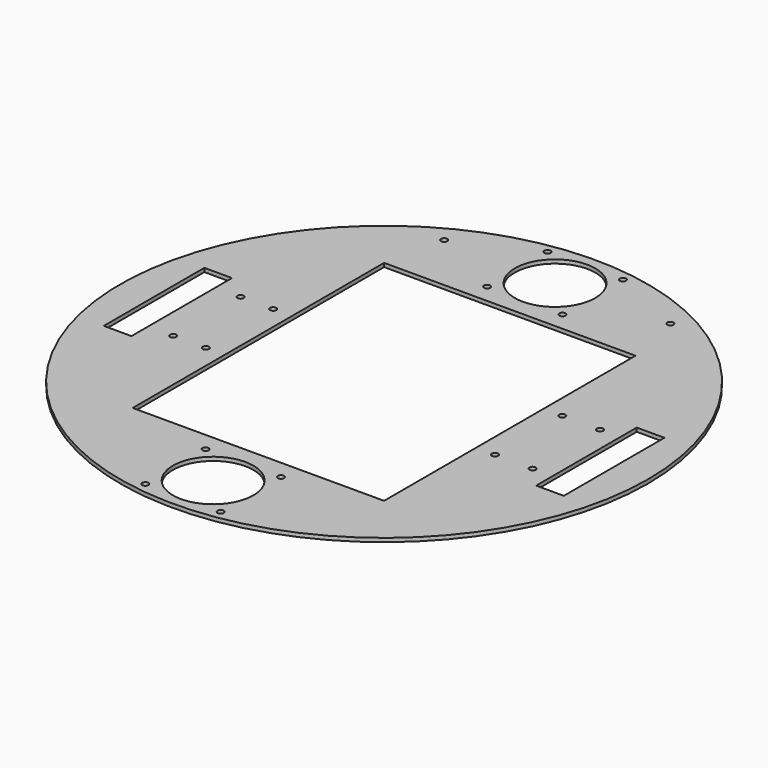
from build123d import *

# Parameters (mm, degrees)
SKETCH_R   = 210
SKETCH_R_2 = 32
SKETCH_R_3 = 2.5
SKETCH_W   = 22
SKETCH_H   = 100
SKETCH_W_2 = 200
SKETCH_H_2 = 250
PAD_DEPTH  = 1.5


with BuildPart() as part:
    # Sketch → Pad (new body, symmetric)
    with BuildSketch(Plane.XY):
        Circle(SKETCH_R)
        with Locations((0, 170)):
            Circle(SKETCH_R_2, mode=Mode.SUBTRACT)
        with Locations((0, -170)):
            Circle(SKETCH_R_2, mode=Mode.SUBTRACT)
        with Locations((-141, 33.5)):
            Circle(SKETCH_R_3, mode=Mode.SUBTRACT)
        with Locations((-141, -33.5)):
            Circle(SKETCH_R_3, mode=Mode.SUBTRACT)
        with Locations((-115, 33.5)):
            Circle(SKETCH_R_3, mode=Mode.SUBTRACT)
        with Locations((-115, -33.5)):
            Circle(SKETCH_R_3, mode=Mode.SUBTRACT)
        with Locations((115, 33.5)):
            Circle(SKETCH_R_3, mode=Mode.SUBTRACT)
        with Locations((115, -33.5)):
            Circle(SKETCH_R_3, mode=Mode.SUBTRACT)
        with Locations((145, 33.5)):
            Circle(SKETCH_R_3, mode=Mode.SUBTRACT)
        with Locations((145, -33.5)):
            Circle(SKETCH_R_3, mode=Mode.SUBTRACT)
        with Locations((-90, 172.29129)):
            Circle(SKETCH_R_3, mode=Mode.SUBTRACT)
        with Locations((90, 172.29129)):
            Circle(SKETCH_R_3, mode=Mode.SUBTRACT)
        with Locations((-30, 200)):
            Circle(SKETCH_R_3, mode=Mode.SUBTRACT)
        with Locations((30, 200)):
            Circle(SKETCH_R_3, mode=Mode.SUBTRACT)
        with Locations((-30, 140)):
            Circle(SKETCH_R_3, mode=Mode.SUBTRACT)
        with Locations((30, 140)):
            Circle(SKETCH_R_3, mode=Mode.SUBTRACT)
        with Locations((-30, -140)):
            Circle(SKETCH_R_3, mode=Mode.SUBTRACT)
        with Locations((30, -140)):
            Circle(SKETCH_R_3, mode=Mode.SUBTRACT)
        with Locations((-30, -200)):
            Circle(SKETCH_R_3, mode=Mode.SUBTRACT)
        with Locations((30, -200)):
            Circle(SKETCH_R_3, mode=Mode.SUBTRACT)
        with Locations((-172, 0)):
            Rectangle(SKETCH_W, SKETCH_H, mode=Mode.SUBTRACT)
        with Locations((172, 0)):
            Rectangle(SKETCH_W, SKETCH_H, mode=Mode.SUBTRACT)
        Rectangle(SKETCH_W_2, SKETCH_H_2, mode=Mode.SUBTRACT)
    extrude(amount=PAD_DEPTH, both=True)


solid = part.part
